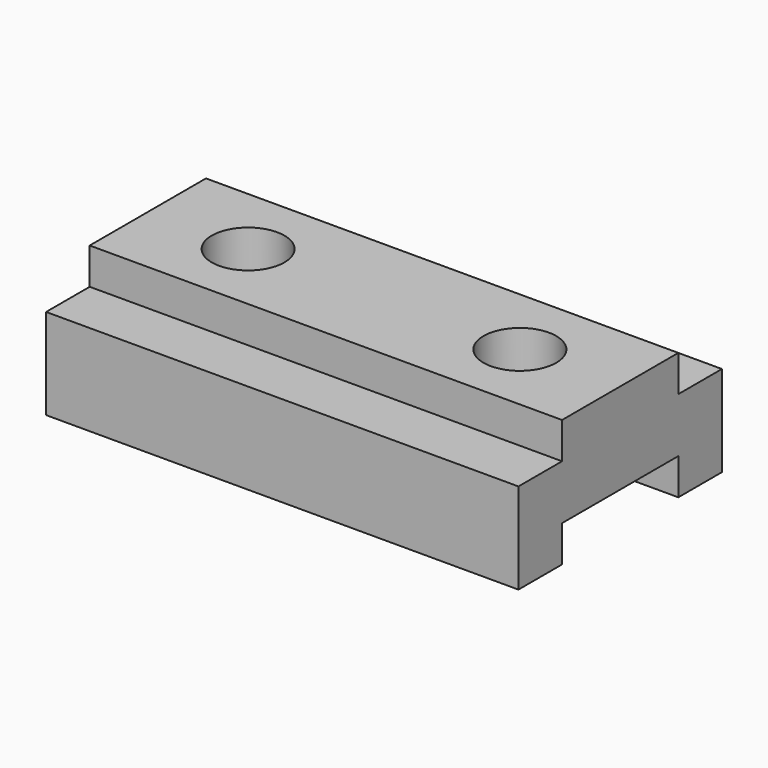
from build123d import *

# Parameters (mm, degrees)
F0_W      = 165.1
F0_H      = 88.9
F1_DEPTH  = 44.45
F2_W      = 50.8
F2_H      = 12.7
F3_DEPTH  = 165.1
F4_W      = 19.05
F4_H      = 12.7
F5_DEPTH  = 165.1
F6_W      = 19.05
F6_H      = 12.7
F7_DEPTH  = 165.1
F8_R      = 12.7
F9_DEPTH  = 44.45
F10_R     = 12.7
F11_DEPTH = 44.45


with BuildPart() as f1:
    # F0 (on Top) → F1 (new body)
    with BuildSketch(Plane.XY):
        with Locations((-25.822643, -8.032825)):
            Rectangle(F0_W, F0_H)
    extrude(amount=F1_DEPTH)

    # F2 (on face) → F3 (cut)
    with BuildSketch(Plane.YZ.offset(56.727357)):
        with Locations((-8.032825, 6.35)):
            Rectangle(F2_W, F2_H)
    extrude(amount=-F3_DEPTH, mode=Mode.SUBTRACT)

    # F4 (on face) → F5 (cut)
    with BuildSketch(Plane.YZ.offset(56.727357)):
        with Locations((-42.957825, 38.1)):
            Rectangle(F4_W, F4_H)
    extrude(amount=-F5_DEPTH, mode=Mode.SUBTRACT)

    # F6 (on face) → F7 (cut)
    with BuildSketch(Plane.YZ.offset(56.727357)):
        with Locations((26.892175, 38.1)):
            Rectangle(F6_W, F6_H)
    extrude(amount=-F7_DEPTH, mode=Mode.SUBTRACT)

    # F8 (on face) → F9 (cut)
    with BuildSketch(Plane.XY.offset(44.45)):
        with Locations((-73.320643, -8.032825)):
            Circle(F8_R)
    extrude(amount=-F9_DEPTH, mode=Mode.SUBTRACT)

    # F10 (on face) → F11 (cut)
    with BuildSketch(Plane.XY.offset(44.45)):
        with Locations((21.675357, -8.032825)):
            Circle(F10_R)
    extrude(amount=-F11_DEPTH, mode=Mode.SUBTRACT)


solid = f1.part
